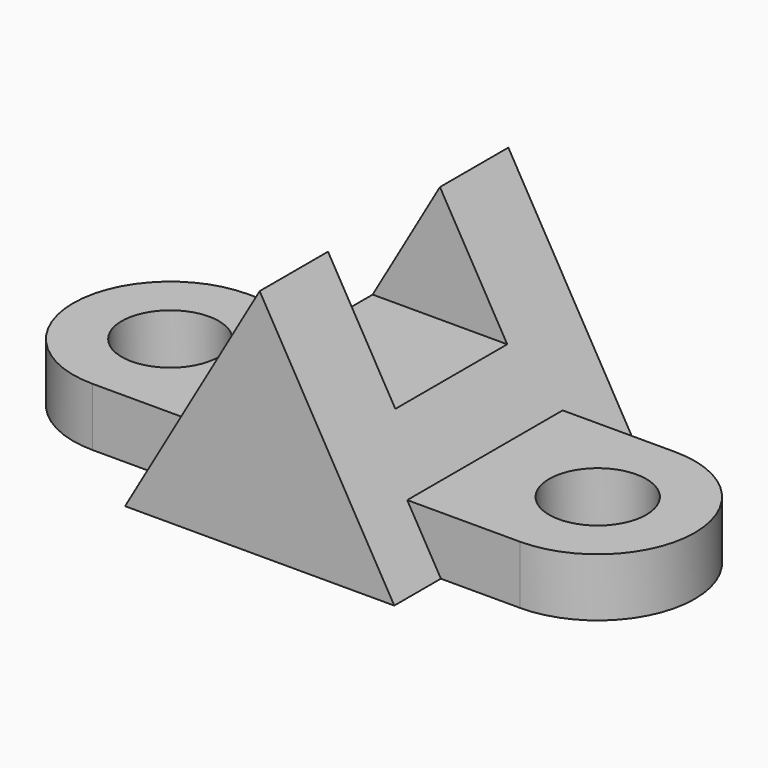
from build123d import *

# Parameters (mm, degrees)
F0_R      = 12.5
F1_DEPTH  = 60
F2_W      = 25
F2_H      = 45
F3_DEPTH  = 80
F4_DEPTH  = 15
F6_DEPTH  = 15
F7_W      = 36
F7_H      = 30
F8_DEPTH  = 50
F8_FACE_W = 36
F8_FACE_H = 30
F9_DEPTH  = 25


with BuildPart() as f1:
    # F0 (on Top) → F1 (new body)
    with BuildSketch(Plane.XY):
        with BuildLine():
            Line((-55, -25), (55, -25))
            ThreePointArc((55, -25), (80, 0), (55, 25))
            Line((55, 25), (-55, 25))
            ThreePointArc((-55, 25), (-80, 0), (-55, -25))
        make_face()
        with Locations((-55, 0)):
            Circle(F0_R, mode=Mode.SUBTRACT)
        with Locations((55, 0)):
            Circle(F0_R, mode=Mode.SUBTRACT)
    extrude(amount=F1_DEPTH)

    # F2 (on face) → F3 (cut)
    with BuildSketch(Plane.XZ.offset(25)):
        with Locations((-67.5, 37.5)):
            Rectangle(F2_W, F2_H)
        Polygon((0, 60), (-55, 60), (-55, 15), (-25.980762, 15), align=None)
        Polygon((55, 60), (0, 60), (25.980762, 15), (55, 15), align=None)
        with Locations((67.5, 37.5)):
            Rectangle(F2_W, F2_H)
    extrude(amount=-F3_DEPTH, mode=Mode.SUBTRACT)

    # F2 (on face) → F4 (join)
    with BuildSketch(Plane.XZ.offset(25)):
        Polygon((25.980762, 15), (0, 60), (-25.980762, 15), (-34.641016, 0), (0, 0), (34.641016, 0), align=None)
    extrude(amount=F4_DEPTH)

    # F5 (on face) → F6 (join)
    with BuildSketch(Plane(origin=(0, 25, 0), x_dir=(-1, 0, 0), z_dir=(0, 1, 0))):
        Polygon((25.980762, 15), (0, 60), (-25.980762, 15), (-34.641016, 0), (34.641016, 0), align=None)
    extrude(amount=F6_DEPTH)

    # F7 (on Right) → F8 (cut)
    with BuildSketch(Plane.YZ):
        with Locations((0, 45)):
            Rectangle(F7_W, F7_H)
    extrude(amount=F8_DEPTH, mode=Mode.SUBTRACT)

    # F8_face (on face) → F9 (cut)
    with BuildSketch(Plane(origin=(0, 0, 45), x_dir=(0, 1, 0), z_dir=(1, 0, 0))):
        Rectangle(F8_FACE_W, F8_FACE_H)
    extrude(amount=-F9_DEPTH, mode=Mode.SUBTRACT)


solid = f1.part
